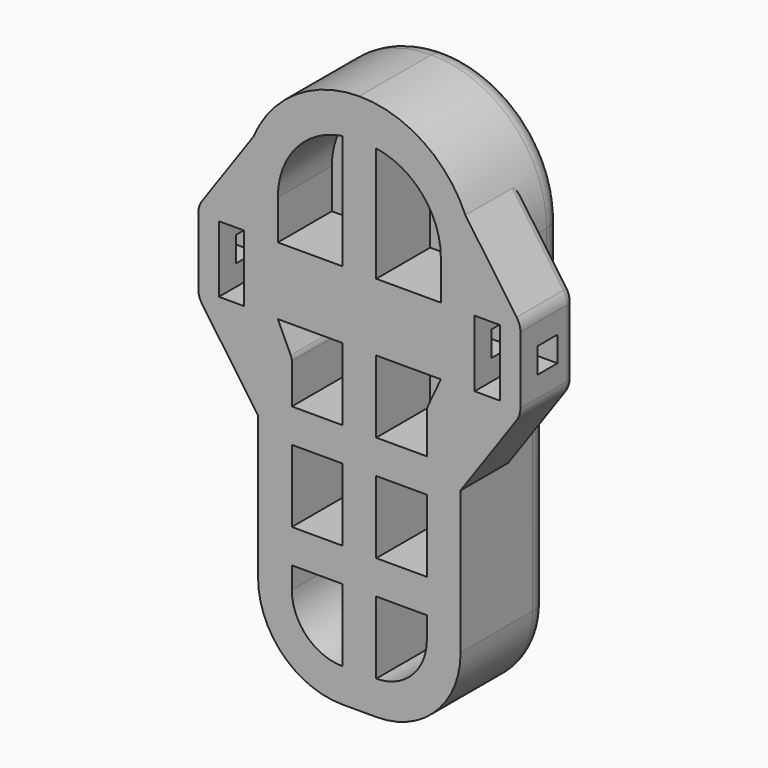
from build123d import *

# Parameters (mm, degrees)
PAD006_DEPTH           = 25
SKETCH009_W            = 71.2318
SKETCH009_H            = 140.2182
POCKET002_DEPTH        = 25.001
POCKET002_DEPTH_BACK   = 0.001
SKETCH010_W            = 5.6
SKETCH010_H            = 14.8
PAD007_DEPTH           = 15
SKETCH011_W            = 5.6
SKETCH011_H            = 5.6
POCKET003_DEPTH        = 35.7869
POCKET003_DEPTH_BACK   = 35.7869
FILLET_R               = 5
FILLET002_R            = 2
SKETCH029_W            = 11.2544
SKETCH029_H            = 16.079666
POCKET014_DEPTH        = 15
POCKET015_DEPTH        = 35.7869
POCKET015_DEPTH_BACK   = 35.7869
LINEARPATTERN002_COUNT = 53
LINEARPATTERN002_PITCH = 2.311888
POCKET016_DEPTH        = 0.001
POCKET016_DEPTH_BACK   = 120.2192
LINEARPATTERN003_COUNT = 18
LINEARPATTERN003_PITCH = 2.4254


with BuildPart() as part:
    # Sketch008 → Pad006 (new body)
    with BuildSketch(Plane.XZ):
        with BuildLine():
            Line((-22.5044, 0), (22.5044, 0))
            Line((22.5044, 0), (22.5044, 63.215202))
            ThreePointArc((22.75823, 64.3128), (22.568684, 63.778485), (22.5044, 63.215202))
            Line((25.36207, 69.641402), (22.75823, 64.3128))
            ThreePointArc((25.36207, 69.641402), (25.551616, 70.175717), (25.6159, 70.739))
            Line((25.6159, 120.2182), (25.6159, 70.739))
            Line((-25.6159, 120.2182), (25.6159, 120.2182))
            Line((-25.6159, 70.739), (-25.6159, 120.2182))
            ThreePointArc((-25.6159, 70.739), (-25.551616, 70.175717), (-25.36207, 69.641402))
            Line((-25.36207, 69.641402), (-22.75823, 64.3128))
            ThreePointArc((-22.5044, 63.215202), (-22.568684, 63.778485), (-22.75823, 64.3128))
            Line((-22.5044, 63.215202), (-22.5044, 0))
        make_face()
    extrude(amount=-PAD006_DEPTH)

    # Sketch009 → Pocket002 (cut, two sides)
    with BuildSketch(Plane.XZ) as pocket002_sk:
        with Locations((0, 60.1091)):
            Rectangle(SKETCH009_W, SKETCH009_H)
        with BuildLine():
            ThreePointArc((-22.5044, 18.6944), (-17.028937, 5.475463), (-3.81, 0))
            Line((-3.81, 0), (3.81, 0))
            ThreePointArc((3.81, 0), (17.028937, 5.475463), (22.5044, 18.6944))
            Line((22.5044, 18.6944), (22.5044, 59.3128))
            Line((22.5044, 59.3128), (25.6159, 59.3128))
            Line((25.6159, 59.3128), (25.6159, 94.6023))
            ThreePointArc((25.6159, 94.6023), (18.113177, 112.715477), (0, 120.2182))
            ThreePointArc((0, 120.2182), (-18.113177, 112.715477), (-25.6159, 94.6023))
            Line((-25.6159, 94.6023), (-25.6159, 59.3128))
            Line((-25.6159, 59.3128), (-22.5044, 59.3128))
            Line((-22.5044, 59.3128), (-22.5044, 18.6944))
        make_face(mode=Mode.SUBTRACT)
    extrude(amount=-POCKET002_DEPTH, mode=Mode.SUBTRACT)
    extrude(pocket002_sk.sketch, amount=POCKET002_DEPTH_BACK, mode=Mode.SUBTRACT)

    # Sketch010 → Pad007 (join)
    with BuildSketch(Plane.XZ):
        with BuildLine():
            Line((35.7859, 70.839), (35.7859, 85.739))
            ThreePointArc((35.7859, 85.739), (35.574386, 87.113226), (34.959425, 88.360244))
            Line((22.5044, 106.147863), (34.959425, 88.360244))
            Line((22.5044, 106.147863), (22.5044, 50.430137))
            Line((22.5044, 50.430137), (34.959425, 68.217756))
            ThreePointArc((34.959425, 68.217756), (35.574386, 69.464774), (35.7859, 70.839))
        make_face()
        with Locations((28.4159, 78.239)):
            Rectangle(SKETCH010_W, SKETCH010_H, mode=Mode.SUBTRACT)
    pad007 = extrude(amount=-PAD007_DEPTH)

    # Mirrored: Pad007 across Sketch010 V_Axis
    add(pad007.mirror(Plane(origin=(0, 0, 0), x_dir=(0, -1, 0), z_dir=(1, 0, 0))))

    # Sketch011 → Pocket003 (cut, two sides)
    with BuildSketch(Plane.YZ) as pocket003_sk:
        with Locations((7.5, 78.239)):
            Rectangle(SKETCH011_W, SKETCH011_H)
    extrude(amount=-POCKET003_DEPTH, mode=Mode.SUBTRACT)
    extrude(pocket003_sk.sketch, amount=POCKET003_DEPTH_BACK, mode=Mode.SUBTRACT)

    # Fillet
    fillet_edges = [part.edges().sort_by_distance(p)[0] for p in [
        (-18.113177, 25, 112.715477),
    ]]
    fillet(fillet_edges, radius=FILLET_R)

    # Fillet002
    fillet002_edges = [part.edges().sort_by_distance(p)[0] for p in [
        (-29.268875, 15, 96.487192),
        (35.7859, 15, 78.289),
    ]]
    fillet(fillet002_edges, radius=FILLET002_R)

    # Sketch029 → Pocket014 (cut)
    with BuildSketch(Plane.XZ):
        with BuildLine():
            ThreePointArc((-15.0044, 18.7544), (-11.708063, 10.796338), (-3.75, 7.5))
            Line((-3.75, 7.5), (-3.75, 23.579667))
            Line((-15.0044, 23.579667), (-3.75, 23.579667))
            Line((-15.0044, 18.7544), (-15.0044, 23.579667))
        make_face()
        with BuildLine():
            ThreePointArc((3.75, 7.5), (11.708063, 10.796337), (15.0044, 18.7544))
            Line((15.0044, 18.7544), (15.0044, 23.579667))
            Line((15.0044, 23.579667), (3.75, 23.579667))
            Line((3.75, 7.5), (3.75, 23.579667))
        make_face()
        with BuildLine():
            Line((18.1159, 85.739), (18.1159, 94.561344))
            ThreePointArc((18.1159, 94.561344), (14.029747, 105.571402), (3.75, 111.249857))
            Line((3.75, 111.249857), (3.75, 85.739))
            Line((3.75, 85.739), (18.1159, 85.739))
        make_face()
        with BuildLine():
            Line((-18.1159, 85.739), (-18.1159, 94.561344))
            ThreePointArc((-3.75, 111.249857), (-14.029747, 105.571402), (-18.1159, 94.561344))
            Line((-3.75, 111.249857), (-3.75, 85.739))
            Line((-3.75, 85.739), (-18.1159, 85.739))
        make_face()
        with BuildLine():
            ThreePointArc((-15.0044, 63.514644), (-15.063702, 64.055934), (-15.238795, 64.571543))
            Line((-18.1159, 70.739), (-15.238795, 64.571543))
            Line((-3.75, 70.739), (-18.1159, 70.739))
            Line((-3.75, 54.659333), (-3.75, 70.739))
            Line((-15.0044, 54.659333), (-3.75, 54.659333))
            Line((-15.0044, 54.659333), (-15.0044, 63.514644))
        make_face()
        with BuildLine():
            ThreePointArc((15.238795, 64.571543), (15.063702, 64.055934), (15.0044, 63.514644))
            Line((15.0044, 54.659333), (15.0044, 63.514644))
            Line((15.0044, 54.659333), (3.75, 54.659333))
            Line((3.75, 54.659333), (3.75, 70.739))
            Line((3.75, 70.739), (18.1159, 70.739))
            Line((15.238795, 64.571543), (18.1159, 70.739))
        make_face()
        with Locations((-9.3772, 39.1195)):
            Rectangle(SKETCH029_W, SKETCH029_H)
        with Locations((9.3772, 39.1195)):
            Rectangle(SKETCH029_W, SKETCH029_H)
    extrude(amount=-POCKET014_DEPTH, mode=Mode.SUBTRACT)

    # Sketch032 → Pocket015 (cut, two sides)
    with BuildSketch(Plane.YZ) as pocket015_sk:
        Polygon((24.999996, -2), (23, 0), (24.999996, 2), (27, 0), align=None)
    pocket015 = extrude(amount=-POCKET015_DEPTH, mode=Mode.SUBTRACT) + extrude(pocket015_sk.sketch, amount=POCKET015_DEPTH_BACK, mode=Mode.SUBTRACT)

    # LinearPattern002: Pocket015 ×53
    with Locations(*[(0, 0, i * LINEARPATTERN002_PITCH) for i in range(1, LINEARPATTERN002_COUNT)]):
        add(pocket015, mode=Mode.SUBTRACT)

    # Sketch033 → Pocket016 (cut, two sides)
    with BuildSketch(Plane.XY) as pocket016_sk:
        Polygon((-20.6159, 27), (-22.6159, 25), (-20.6159, 23), (-18.6159, 25), align=None)
    pocket016 = extrude(amount=-POCKET016_DEPTH, mode=Mode.SUBTRACT) + extrude(pocket016_sk.sketch, amount=POCKET016_DEPTH_BACK, mode=Mode.SUBTRACT)

    # LinearPattern003: Pocket016 ×18
    with Locations(*[(i * LINEARPATTERN003_PITCH, 0, 0) for i in range(1, LINEARPATTERN003_COUNT)]):
        add(pocket016, mode=Mode.SUBTRACT)


with BuildPart() as part_1:
    # Body002 placement: moved
    add(part.part.moved(Location((0, 15, 0))))


solid = part_1.part
